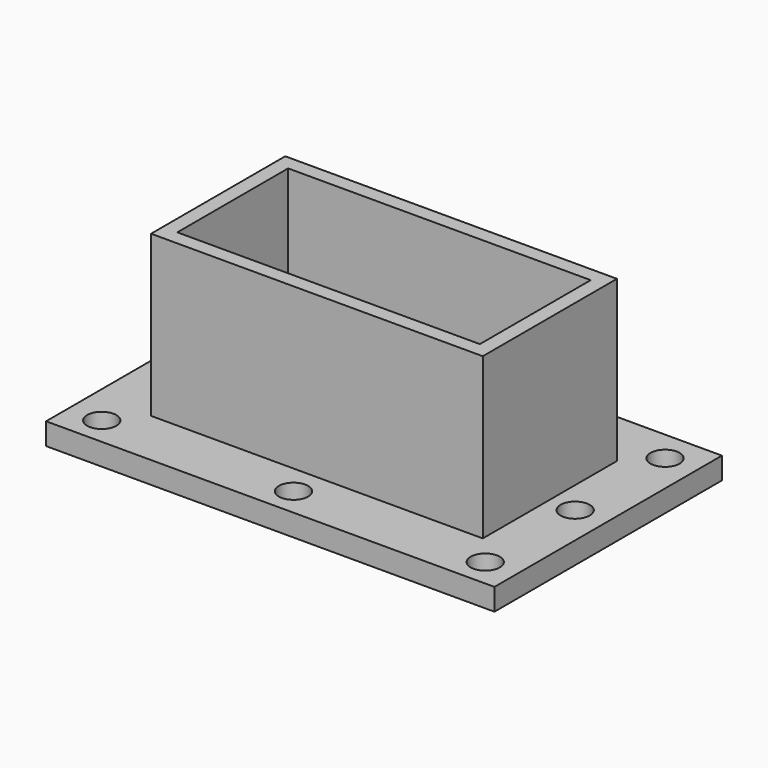
from build123d import *

# Parameters (mm, degrees)
F0_W     = 45.5
F0_H     = 23
F0_W_2   = 41.5
F0_H_2   = 19
F1_DEPTH = 25
F0_W_3   = 61.5
F0_H_3   = 39
F2_DEPTH = 3
F3_R     = 2
F4_DEPTH = 3.001


with BuildPart() as f1:
    # F0 (on Top) → F1 (new body)
    with BuildSketch(Plane.XY):
        with Locations((-20.75, 9.5)):
            Rectangle(F0_W, F0_H)
        with Locations((-20.75, 9.5)):
            Rectangle(F0_W_2, F0_H_2, mode=Mode.SUBTRACT)
    extrude(amount=F1_DEPTH)

    # F0 (on Top) → F2 (join)
    with BuildSketch(Plane.XY):
        with Locations((-20.75, 9.5)):
            Rectangle(F0_W_3, F0_H_3)
        with Locations((-20.75, 9.5)):
            Rectangle(F0_W, F0_H, mode=Mode.SUBTRACT)
    extrude(amount=F2_DEPTH)

    # F3 (on face) → F4 (cut, through all)
    with BuildSketch(Plane.XY.offset(3)):
        with Locations((-46.968646, 24.716979)):
            Circle(F3_R)
        with Locations((-20.668646, 24.716979)):
            Circle(F3_R)
        with Locations((5.631354, 24.716979)):
            Circle(F3_R)
        with Locations((-46.968646, 9.299078)):
            Circle(F3_R)
        with Locations((5.631354, 9.299078)):
            Circle(F3_R)
        with Locations((-46.968646, -6.118824)):
            Circle(F3_R)
        with Locations((-20.668646, -6.118824)):
            Circle(F3_R)
        with Locations((5.631354, -6.118824)):
            Circle(F3_R)
    extrude(amount=-F4_DEPTH, mode=Mode.SUBTRACT)


solid = f1.part
